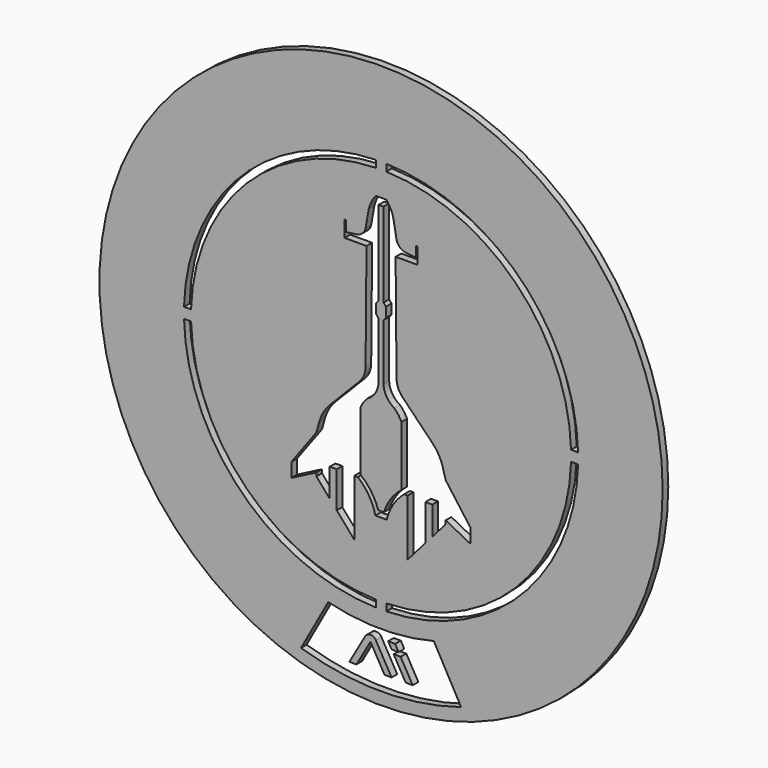
from build123d import *

# Parameters (mm, degrees)
F0_R     = 101.6
F1_DEPTH = 2.54
F3_DEPTH = 25.4
F5_DEPTH = 25.4
F7_DEPTH = 25.4


with BuildPart() as f1:
    # F0 (on Front) → F1 (new body)
    with BuildSketch(Plane.XZ):
        Circle(F0_R)
    extrude(amount=-F1_DEPTH)

    # F2 (on face) → F3 (cut)
    with BuildSketch(Plane.XZ):
        with BuildLine():
            Line((-68.553537, -1.905), (-71.094482, -1.905))
            ThreePointArc((-71.094482, -1.905), (-50.289434, -50.289434), (-1.905, -71.094482))
            Line((-1.905, -71.094482), (-1.905, -68.553537))
            ThreePointArc((-1.905, -68.553537), (-48.493383, -48.493383), (-68.553537, -1.905))
        make_face()
        with BuildLine():
            Line((-71.094482, 1.905), (-68.553537, 1.905))
            ThreePointArc((-68.553537, 1.905), (-48.493383, 48.493383), (-1.905, 68.553537))
            Line((-1.905, 68.553537), (-1.905, 71.094482))
            ThreePointArc((-1.905, 71.094482), (-50.289434, 50.289434), (-71.094482, 1.905))
        make_face()
        with BuildLine():
            Line((1.905, 71.094482), (1.905, 68.553537))
            ThreePointArc((1.905, 68.553537), (48.493383, 48.493383), (68.553537, 1.905))
            Line((68.553537, 1.905), (71.094482, 1.905))
            ThreePointArc((71.094482, 1.905), (50.289434, 50.289434), (1.905, 71.094482))
        make_face()
        with BuildLine():
            Line((71.094482, -1.905), (68.553537, -1.905))
            ThreePointArc((68.553537, -1.905), (48.493383, -48.493383), (1.905, -68.553537))
            Line((1.905, -68.553537), (1.905, -71.094482))
            ThreePointArc((1.905, -71.094482), (50.289434, -50.289434), (71.094482, -1.905))
        make_face()
    extrude(amount=-F3_DEPTH, mode=Mode.SUBTRACT)

    # F4 (on face) → F5 (cut)
    with BuildSketch(Plane.XZ):
        with BuildLine():
            Line((1.905, 59.663537), (0, 59.663537))
            Line((0, 59.663537), (0, 57.123537))
            Line((0, 57.123537), (0.889, 57.123537))
            Line((0.889, 57.123537), (0.889, 26.643537))
            Line((0.889, 26.643537), (1.740593, 25.628647))
            Line((1.740593, 25.628647), (1.740593, 22.072647))
            Line((1.740593, 22.072647), (0.889, 21.057757))
            Line((0.889, 21.057757), (0.889, 0.737757))
            ThreePointArc((0.889, 0.737757), (2.017691, -2.949643), (4.807212, -5.612243))
            ThreePointArc((4.807212, -5.612243), (6.248737, -7.267725), (7.347212, -9.168243))
            Line((7.347212, -9.168243), (7.347212, -30.758243))
            ThreePointArc((7.347212, -30.758243), (3.499435, -34.857914), (1.016, -39.902243))
            Line((1.016, -39.902243), (0, -39.902243))
            Line((0, -39.902243), (0, -41.934243))
            Line((0, -41.934243), (2.032, -41.934243))
            ThreePointArc((2.032, -41.934243), (4.378791, -36.343997), (8.363212, -31.774243))
            Line((8.363212, -31.774243), (9.633212, -31.774243))
            Line((9.633212, -31.774243), (9.633212, -52.094243))
            Line((9.633212, -52.094243), (15.983212, -44.8371))
            Line((15.983212, -44.8371), (15.983212, -31.774243))
            Line((15.983212, -31.774243), (18.523212, -31.774243))
            Line((18.523212, -31.774243), (18.523212, -41.934243))
            Line((18.523212, -41.934243), (23.324368, -36.447207))
            Line((23.324368, -36.447207), (23.324368, -35.177207))
            Line((23.324368, -35.177207), (32.354376, -39.833874))
            Line((32.354376, -39.833874), (32.354376, -34.753874))
            Line((32.354376, -34.753874), (23.324368, -22.477207))
            Line((23.324368, -22.477207), (22.310513, -18.804579))
            ThreePointArc((22.310513, -18.804579), (20.83457, -15.268376), (18.523212, -12.21211))
            Line((18.523212, -12.21211), (7.756104, -1.186821))
            ThreePointArc((7.756104, -1.186821), (6.163207, 1.232062), (5.588, 4.070628))
            Line((5.588, 4.070628), (5.25146, 42.634253))
            Line((5.25146, 42.634253), (13.134678, 42.634253))
            Line((13.134678, 42.634253), (13.134678, 48.476253))
            Line((13.134678, 48.476253), (12.626678, 48.476253))
            Line((12.626678, 48.476253), (12.626678, 44.666253))
            Line((12.626678, 44.666253), (8.849666, 45.166535))
            ThreePointArc((8.849666, 45.166535), (6.681256, 46.208204), (5.547666, 48.330007))
            Line((5.547666, 48.330007), (4.445, 54.583537))
            ThreePointArc((4.445, 54.583537), (3.462622, 57.267348), (1.905, 59.663537))
        make_face()
        with BuildLine():
            Line((0, 59.663537), (-1.905, 59.663537))
            ThreePointArc((-1.905, 59.663537), (-3.462622, 57.267348), (-4.445, 54.583537))
            Line((-4.445, 54.583537), (-5.547666, 48.330007))
            ThreePointArc((-5.547666, 48.330007), (-6.681256, 46.208204), (-8.849666, 45.166535))
            Line((-8.849666, 45.166535), (-12.626678, 44.666253))
            Line((-12.626678, 44.666253), (-12.626678, 48.476253))
            Line((-12.626678, 48.476253), (-13.134678, 48.476253))
            Line((-13.134678, 48.476253), (-13.134678, 42.634253))
            Line((-13.134678, 42.634253), (-5.25146, 42.634253))
            Line((-5.25146, 42.634253), (-5.588, 4.070628))
            ThreePointArc((-5.588, 4.070628), (-6.163207, 1.232062), (-7.756104, -1.186821))
            Line((-7.756104, -1.186821), (-18.523212, -12.21211))
            ThreePointArc((-18.523212, -12.21211), (-20.83457, -15.268376), (-22.310513, -18.804579))
            Line((-22.310513, -18.804579), (-23.324368, -22.477207))
            Line((-23.324368, -22.477207), (-32.354376, -34.753874))
            Line((-32.354376, -34.753874), (-32.354376, -39.833874))
            Line((-32.354376, -39.833874), (-23.324368, -35.177207))
            Line((-23.324368, -35.177207), (-23.324368, -36.447207))
            Line((-23.324368, -36.447207), (-18.523212, -41.934243))
            Line((-18.523212, -41.934243), (-18.523212, -31.774243))
            Line((-18.523212, -31.774243), (-15.983212, -31.774243))
            Line((-15.983212, -31.774243), (-15.983212, -44.8371))
            Line((-15.983212, -44.8371), (-9.633212, -52.094243))
            Line((-9.633212, -52.094243), (-9.633212, -31.774243))
            Line((-9.633212, -31.774243), (-8.363212, -31.774243))
            ThreePointArc((-8.363212, -31.774243), (-4.378791, -36.343997), (-2.032, -41.934243))
            Line((-2.032, -41.934243), (0, -41.934243))
            Line((0, -41.934243), (0, -39.902243))
            Line((0, -39.902243), (-1.016, -39.902243))
            ThreePointArc((-1.016, -39.902243), (-3.499435, -34.857914), (-7.347212, -30.758243))
            Line((-7.347212, -30.758243), (-7.347212, -9.168243))
            ThreePointArc((-7.347212, -9.168243), (-6.248737, -7.267725), (-4.807212, -5.612243))
            ThreePointArc((-4.807212, -5.612243), (-2.017691, -2.949643), (-0.889, 0.737757))
            Line((-0.889, 0.737757), (-0.889, 21.057757))
            Line((-0.889, 21.057757), (-1.740593, 22.072647))
            Line((-1.740593, 22.072647), (-1.740593, 25.628647))
            Line((-1.740593, 25.628647), (-0.889, 26.643537))
            Line((-0.889, 26.643537), (-0.889, 57.123537))
            Line((-0.889, 57.123537), (0, 57.123537))
            Line((0, 57.123537), (0, 59.663537))
        make_face()
    extrude(amount=-F5_DEPTH, mode=Mode.SUBTRACT)

    # F6 (on face) → F7 (cut)
    with BuildSketch(Plane.XZ):
        with BuildLine():
            Line((-19.05, -74.954243), (-28.887378, -92.734243))
            ThreePointArc((-28.887378, -92.734243), (0, -97.1294), (28.887378, -92.734243))
            Line((28.887378, -92.734243), (19.05, -74.954243))
            ThreePointArc((19.05, -74.954243), (0, -77.33719), (-19.05, -74.954243))
        make_face()
        with BuildLine():
            Line((-3.81, -82.574243), (-8.89, -91.464243))
            Line((-8.89, -91.464243), (-11.43, -91.464243))
            Line((-11.43, -91.464243), (-5.724769, -81.480089))
            ThreePointArc((-5.724769, -81.480089), (-3.81, -80.368905), (-1.895231, -81.480089))
            Line((-1.895231, -81.480089), (3.81, -91.464243))
            Line((3.81, -91.464243), (1.27, -91.464243))
            Line((1.27, -91.464243), (-3.81, -82.574243))
        make_face(mode=Mode.SUBTRACT)
        Polygon((6.35, -82.574243), (3.81, -82.574243), (2.549807, -80.368905), (5.089807, -80.368905), align=None, mode=Mode.SUBTRACT)
        Polygon((11.43, -91.464243), (8.89, -91.464243), (4.535714, -83.844243), (7.075714, -83.844243), align=None, mode=Mode.SUBTRACT)
    extrude(amount=-F7_DEPTH, mode=Mode.SUBTRACT)


solid = f1.part
